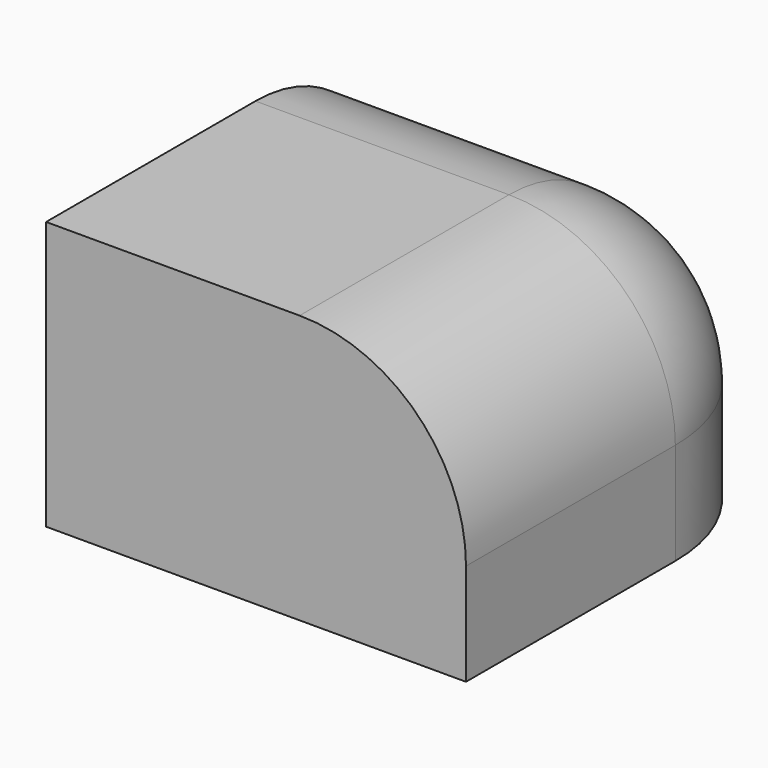
from build123d import *

# Parameters (mm, degrees)
F0_W     = 128.208578
F0_H     = 130.697966
F1_DEPTH = 81.913203
F2_R     = 50.8


with BuildPart() as f1:
    # F0 (on Top) → F1 (new body)
    with BuildSketch(Plane.XY):
        Rectangle(F0_W, F0_H)
    extrude(amount=F1_DEPTH)

    # F2
    f2_edges = [f1.edges().sort_by_distance(p)[0] for p in [
        (0, 65.348983, 81.913203),
        (64.104289, 0, 81.913203),
        (64.104289, 65.348983, 40.956602),
    ]]
    fillet(f2_edges, radius=F2_R)


solid = f1.part
